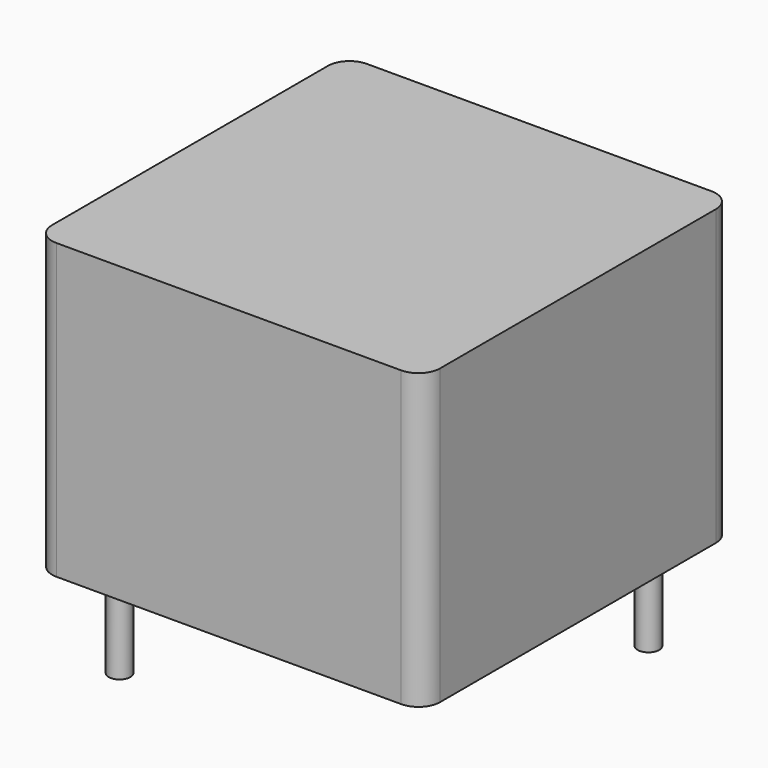
from build123d import *

# Parameters (mm, degrees)
SKETCH_W     = 12.57
SKETCH_H     = 12.57
PAD_DEPTH    = 9.52
FILLET_R     = 0.7
SKETCH001_R  = 0.35
PAD001_DEPTH = 3.5


with BuildPart() as fillet_body:
    # Sketch → Pad (new body)
    with BuildSketch(Plane.XY.offset(0.1)):
        with Locations((4.76, 4.76)):
            Rectangle(SKETCH_W, SKETCH_H)
    extrude(amount=PAD_DEPTH)

    # Fillet
    fillet_edges = [fillet_body.edges().sort_by_distance(p)[0] for p in [
        (11.045, -1.525, 4.86),
        (11.045, 11.045, 4.86),
        (-1.525, -1.525, 4.86),
        (-1.525, 11.045, 4.86),
    ]]
    fillet(fillet_edges, radius=FILLET_R)


with BuildPart() as obj1:
    # Sketch001 → Pad001 (new body)
    with BuildSketch(Plane.XY.offset(0.5)):
        Circle(SKETCH001_R)
        with Locations((9.52, 9.52)):
            Circle(SKETCH001_R)
    extrude(amount=-PAD001_DEPTH)

    # obj1: union Fillet body
    add(fillet_body.part)


solid = obj1.part
